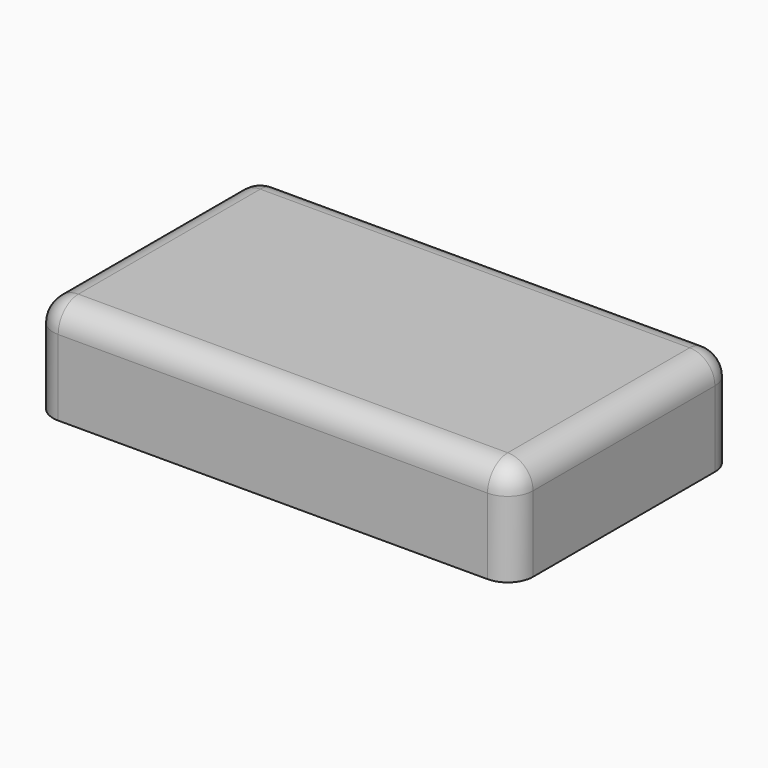
from build123d import *

# Parameters (mm, degrees)
F1_DEPTH = 2
F2_R     = 1


with BuildPart() as f1:
    # F0 (on Top) → F1 (new body, symmetric)
    with BuildSketch(Plane.XY):
        with BuildLine():
            ThreePointArc((9.5, 4.5), (9.2071067812, 5.2071067812), (8.5, 5.5))
            Line((8.5, 5.5), (-8.5, 5.5))
            ThreePointArc((-8.5, 5.5), (-9.2071067812, 5.2071067812), (-9.5, 4.5))
            Line((-9.5, 4.5), (-9.5, -4.5))
            ThreePointArc((-9.5, -4.5), (-9.2071067812, -5.2071067812), (-8.5, -5.5))
            Line((-8.5, -5.5), (8.5, -5.5))
            ThreePointArc((8.5, -5.5), (9.2071067812, -5.2071067812), (9.5, -4.5))
            Line((9.5, -4.5), (9.5, 4.5))
        make_face()
    extrude(amount=F1_DEPTH, both=True)

    # F2
    f2_edges = [f1.edges().sort_by_distance(p)[0] for p in [
        (0, -5.5, 2),
    ]]
    fillet(f2_edges, radius=F2_R)


solid = f1.part
